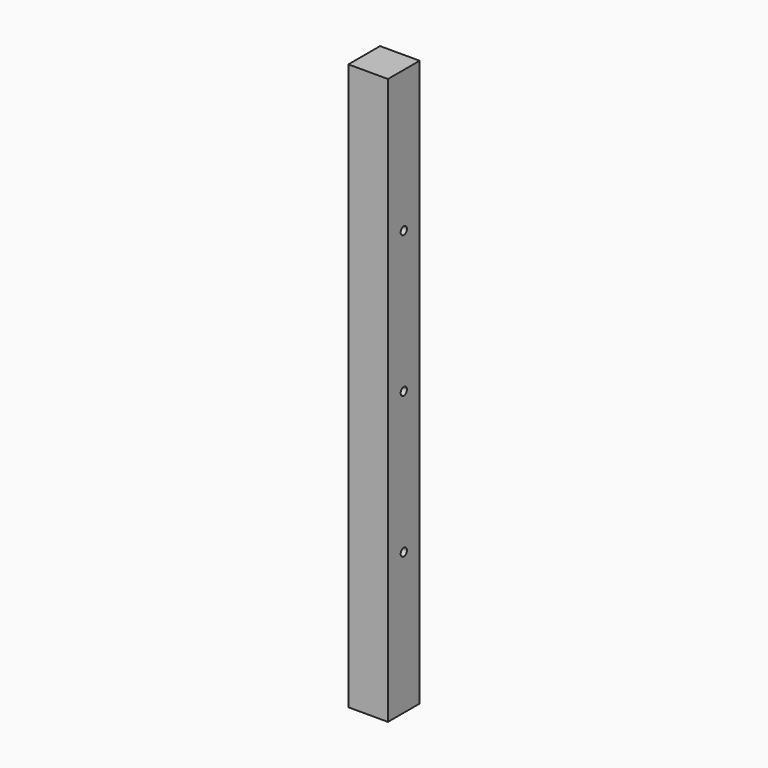
from build123d import *

# Parameters (mm, degrees)
F0_W     = 32
F0_H     = 32
F1_DEPTH = 457.2
F3_DEPTH = 32.001


with BuildPart() as f1:
    # F0 (on Top) → F1 (new body)
    with BuildSketch(Plane.XY):
        Rectangle(F0_W, F0_H)
    extrude(amount=F1_DEPTH)

    # F2 (on face) → F3 (cut, through all)
    with BuildSketch(Plane.YZ.offset(16)):
        with BuildLine():
            ThreePointArc((0, 117.475), (-3.175, 114.3), (0, 111.125))
            Line((0, 111.125), (0, 114.3))
            Line((0, 114.3), (0, 117.475))
        make_face()
        with BuildLine():
            ThreePointArc((3.175, 342.9), (-2.245064, 345.145064), (0, 339.725))
            ThreePointArc((0, 339.725), (2.245064, 340.654936), (3.175, 342.9))
        make_face()
        with BuildLine():
            ThreePointArc((0, 231.775), (-3.175, 228.6), (0, 225.425))
            Line((0, 225.425), (0, 228.6))
            Line((0, 228.6), (0, 231.775))
        make_face()
        with BuildLine():
            Line((0, 228.6), (0, 225.425))
            ThreePointArc((0, 225.425), (2.245064, 226.354936), (3.175, 228.6))
            ThreePointArc((3.175, 228.6), (2.245064, 230.845064), (0, 231.775))
            Line((0, 231.775), (0, 228.6))
        make_face()
        with BuildLine():
            Line((0, 114.3), (0, 111.125))
            ThreePointArc((0, 111.125), (2.245064, 112.054936), (3.175, 114.3))
            ThreePointArc((3.175, 114.3), (2.245064, 116.545064), (0, 117.475))
            Line((0, 117.475), (0, 114.3))
        make_face()
    extrude(amount=-F3_DEPTH, mode=Mode.SUBTRACT)


solid = f1.part
